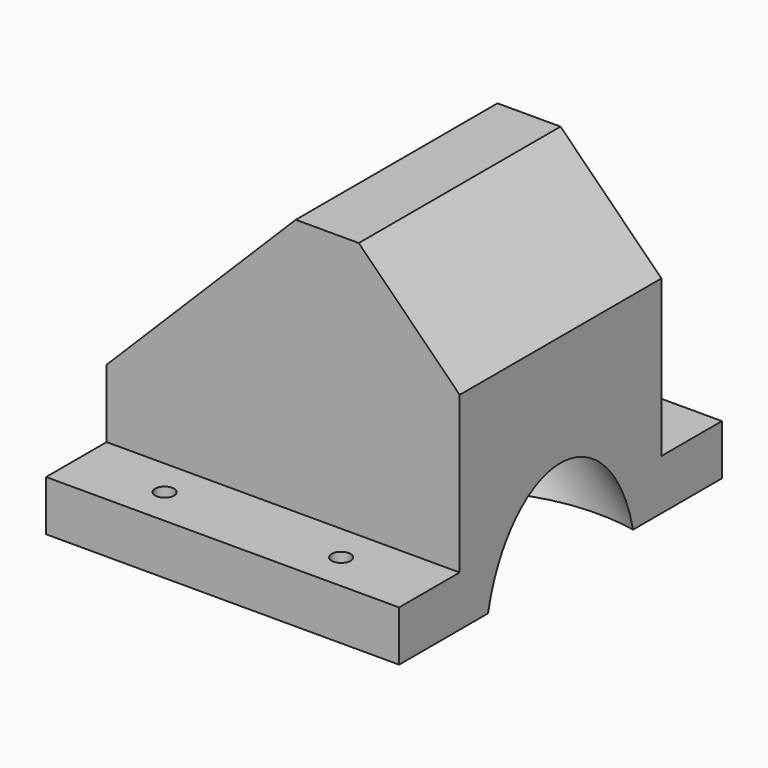
from build123d import *

# Parameters (mm, degrees)
F0_W     = 280
F0_H     = 40
F1_DEPTH = 160
F2_DEPTH = 100
F4_R     = 7.5
F5_R     = 7.5
F6_DEPTH = 40.001
F3_R     = 75
F7_DEPTH = 264.4589361638


with BuildPart() as f1:
    # F0 (on Front) → F1 (new body, symmetric)
    with BuildSketch(Plane.XZ):
        with Locations((0, -102)):
            Rectangle(F0_W, F0_H)
    extrude(amount=F1_DEPTH, both=True)

    # F0 (on Front) → F2 (join, symmetric)
    with BuildSketch(Plane.XZ):
        Polygon((60, 122), (10, 122), (-140, -28), (-140, -82), (140, -82), (140, 42), align=None)
    extrude(amount=F2_DEPTH, both=True)

    # F4 (on face) + F5 (on face) → F6 (cut, through all)
    with BuildSketch(Plane.XY.offset(-82)):
        with Locations((70, 130)):
            Circle(F4_R)
        with Locations((-70, 130)):
            Circle(F4_R)
    with BuildSketch(Plane.XY.offset(-82)):
        with Locations((-70, -130)):
            Circle(F5_R)
        with Locations((70, -130)):
            Circle(F5_R)
    extrude(amount=-F6_DEPTH, mode=Mode.SUBTRACT)

    # F3 (on face) → F7 (cut, through all)
    with BuildSketch(Plane(origin=(-56, 0, 56), x_dir=(0, -1, 0), z_dir=(-0.7071067812, 0, 0.7071067812))):
        with Locations((0, -8.6445035856)):
            Circle(F3_R)
    extrude(amount=-F7_DEPTH, mode=Mode.SUBTRACT)


solid = f1.part
